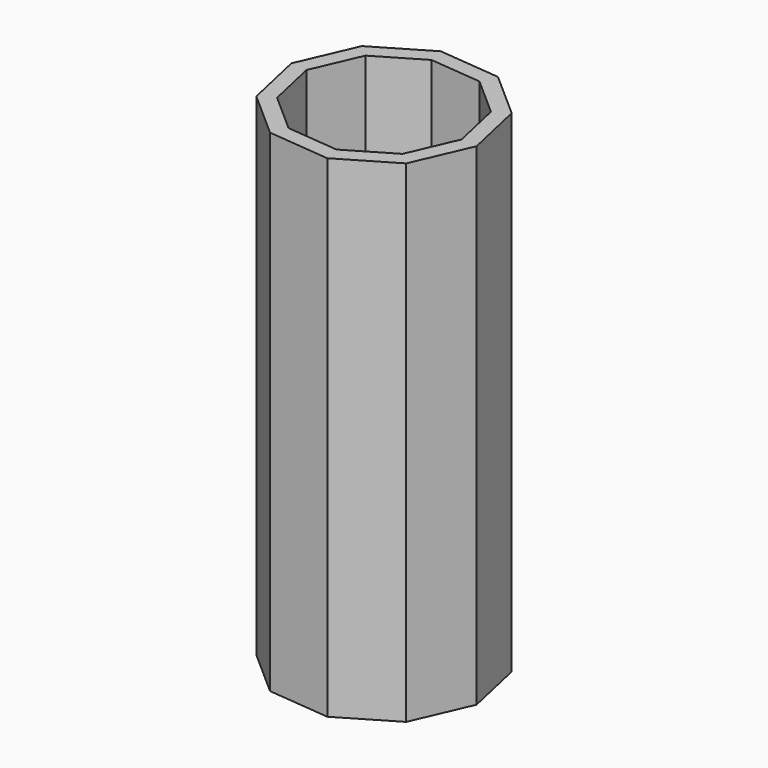
from build123d import *

# Parameters (mm, degrees)
F1_DEPTH = 790
F2_T     = -25


with BuildPart() as f1:
    # F0 (on Top) → F1 (new body)
    with BuildSketch(Plane.XY):
        Polygon((35.191152, -157.93012), (121.299235, -107.083311), (161.075133, -15.334316), (139.325805, 82.271865), (64.358755, 148.452991), (-35.191152, 157.93012), (-121.299235, 107.083311), (-161.075133, 15.334316), (-139.325805, -82.271865), (-64.358755, -148.452991), align=None)
    extrude(amount=F1_DEPTH)

    # F2
    f2_openings = [f1.faces().sort_by_distance(p)[0] for p in [
        (0, 0, 790),
    ]]
    offset(amount=F2_T, openings=f2_openings)


solid = f1.part
